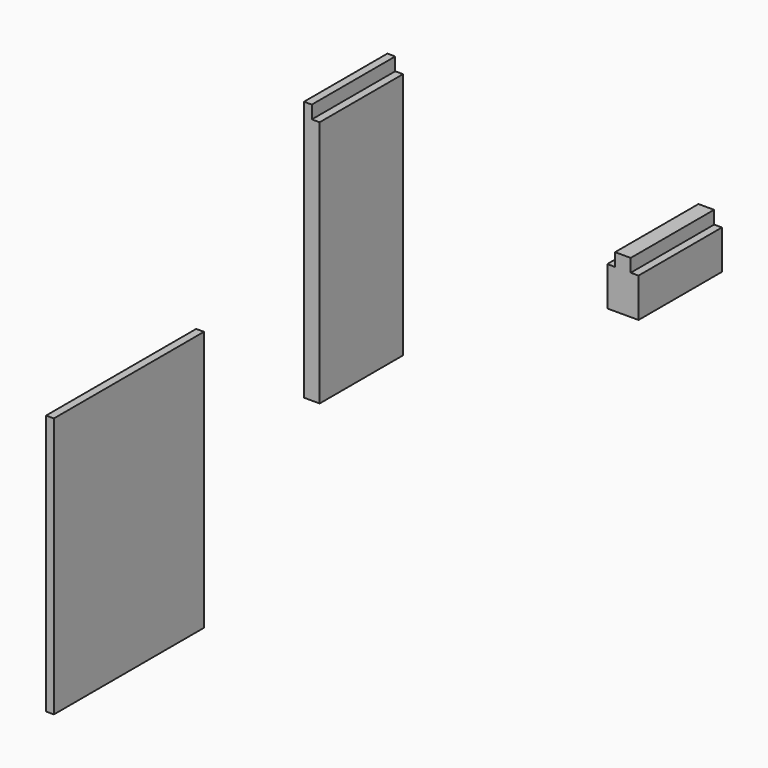
from build123d import *

# Parameters (mm, degrees)
F0_W     = 400
F0_H     = 1000
F1_DEPTH = 50
F2_W     = 30
F2_H     = 950
F3_DEPTH = 400
F5_W     = 30
F5_H     = 150
F6_DEPTH = 400
F7_W     = 720
F7_H     = 1000
F8_DEPTH = 30


with BuildPart() as f1:
    # F0 (on Right) → F1 (new body)
    with BuildSketch(Plane.YZ):
        with Locations((40.004969, 177.131296)):
            Rectangle(F0_W, F0_H)
    extrude(amount=F1_DEPTH)


with BuildPart() as f3:
    # F2 (on face) → F3 (new body)
    with BuildSketch(Plane.XZ.offset(159.995031)):
        Polygon((-582.175538, 693.388123), (-612.175538, 693.388123), (-612.175538, -306.611877), (-582.175538, -306.611877), (-582.175538, 643.388123), align=None)
        with Locations((-567.175538, 168.388123)):
            Rectangle(F2_W, F2_H)
    extrude(amount=F3_DEPTH)


with BuildPart() as f6:
    # F5 (on Front) → F6 (new body)
    with BuildSketch(Plane.XZ):
        with Locations((208.447363, 75)):
            Rectangle(F5_W, F5_H)
        Polygon((193.447363, 200), (133.447363, 200), (133.447363, 150), (133.447363, 0), (193.447363, 0), (193.447363, 150), align=None)
        with Locations((118.447363, 75)):
            Rectangle(F5_W, F5_H)
    extrude(amount=-F6_DEPTH)


with BuildPart() as f8:
    # F7 (on face) → F8 (new body)
    with BuildSketch(Plane.YZ):
        with Locations((-2202.380761, 146.303445)):
            Rectangle(F7_W, F7_H)
    extrude(amount=F8_DEPTH)


solid = Compound([f3.part, f6.part, f8.part])
